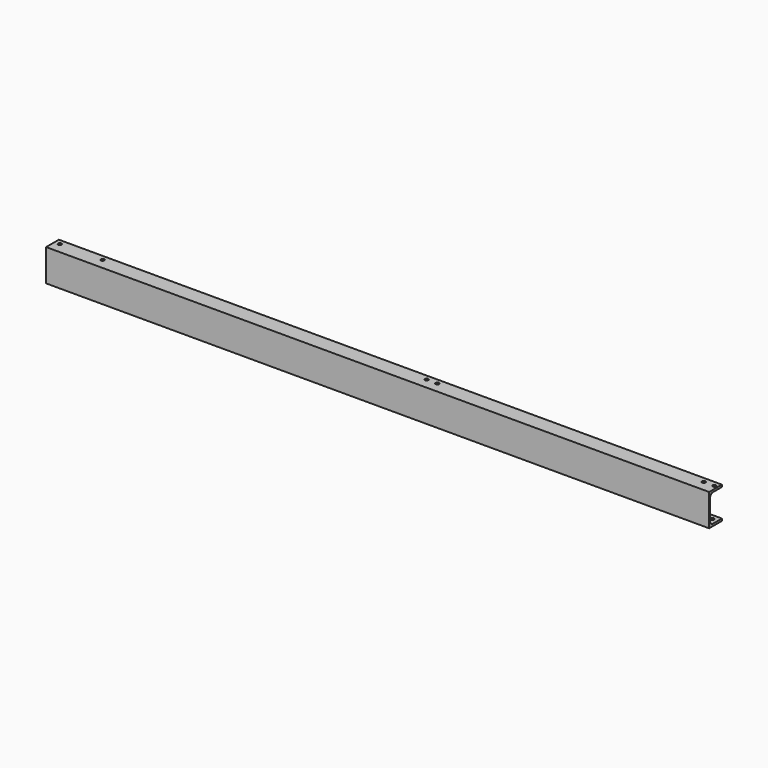
from build123d import *

# Parameters (mm, degrees)
F3_DEPTH   = 2487.787
F4_R       = 6.5
F5_DEPTH   = 8
F3_FACE2_W = 2487.787
F3_FACE2_H = 60
F3_FACE2_R = 6.5
F7_DEPTH   = 8.001
F6_R       = 6.5
F8_DEPTH   = 8


with BuildPart() as f3:
    # F2 (on Right) → F3 (new body)
    with BuildSketch(Plane.YZ):
        with BuildLine():
            Line((-60, 0), (0, 0))
            Line((0, 0), (0, 8))
            Line((0, 8), (-43, 8))
            ThreePointArc((-43, 8), (-51.4852813742, 11.5147186258), (-55, 20))
            Line((-55, 20), (-55, 100))
            ThreePointArc((-55, 100), (-51.4852813742, 108.4852813742), (-43, 112))
            Line((-43, 112), (0, 112))
            Line((0, 112), (0, 120))
            Line((0, 120), (-60, 120))
            Line((-60, 120), (-60, 0))
        make_face()
    extrude(amount=-F3_DEPTH)

    # F4 (on face) → F5 (cut, through all)
    with BuildSketch(Plane.XY.offset(8)):
        with Locations((-2273.377, -20)):
            Circle(F4_R)
        with Locations((-2433.377, -20)):
            Circle(F4_R)
    extrude(amount=-F5_DEPTH, mode=Mode.SUBTRACT)

    # F4 (on face) + F3_face2 (on face) → F7 (cut, through all)
    with BuildSketch(Plane.XY.offset(8)):
        with Locations((-20, -20)):
            Circle(F4_R)
        with Locations((-180, -20)):
            Circle(F4_R)
        with Locations((-2433.377, -20)):
            Circle(F4_R)
        with Locations((-2273.377, -20)):
            Circle(F4_R)
    with BuildSketch(Plane(origin=(-1241.9168214726, -30.0178162048, 0), x_dir=(1, 0, 0), z_dir=(0, 0, -1))):
        with Locations((-1.9766785274, -0.0178162048)):
            Rectangle(F3_FACE2_W, F3_FACE2_H)
        with Locations((-1191.4601785274, -10.0178162048)):
            Circle(F3_FACE2_R, mode=Mode.SUBTRACT)
        with Locations((-1031.4601785274, -10.0178162048)):
            Circle(F3_FACE2_R, mode=Mode.SUBTRACT)
    extrude(amount=-F7_DEPTH, dir=(0, 0, 1), mode=Mode.SUBTRACT)

    # F6 (on face) → F8 (cut, through all)
    with BuildSketch(Plane.XY.offset(120)):
        with Locations((-52, -20)):
            Circle(F6_R)
        with Locations((-12, -20)):
            Circle(F6_R)
        with Locations((-1052, -20)):
            Circle(F6_R)
        with Locations((-1092, -20)):
            Circle(F6_R)
        with Locations((-2307.787, -20)):
            Circle(F6_R)
        with Locations((-2467.787, -20)):
            Circle(F6_R)
    extrude(amount=-F8_DEPTH, mode=Mode.SUBTRACT)


solid = f3.part
